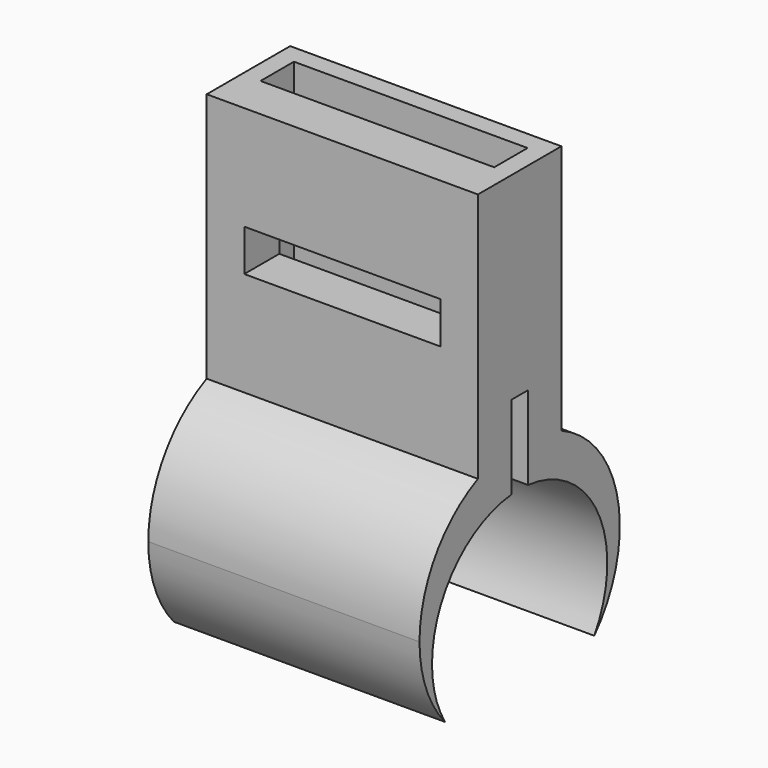
from build123d import *

# Parameters (mm, degrees)
F0_W     = 13
F0_H     = 5
F1_DEPTH = 12
F2_W     = 11.2
F2_H     = 2
F3_DEPTH = 12
F4_W     = 9.4
F4_H     = 2
F5_DEPTH = 5.001
F7_DEPTH = 13
F8_W     = 1
F8_H     = 4
F9_DEPTH = 13.001


with BuildPart() as f1:
    # F0 (on Top) → F1 (new body)
    with BuildSketch(Plane.XY):
        Rectangle(F0_W, F0_H)
    extrude(amount=F1_DEPTH)

    # F2 (on face) → F3 (cut)
    with BuildSketch(Plane.XY.offset(12)):
        with Locations((0, 0.6)):
            Rectangle(F2_W, F2_H)
    extrude(amount=-F3_DEPTH, mode=Mode.SUBTRACT)

    # F4 (on face) → F5 (cut, through all)
    with BuildSketch(Plane(origin=(0, 2.5, 0), x_dir=(-1, 0, 0), z_dir=(0, 1, 0))):
        with Locations((0, 6)):
            Rectangle(F4_W, F4_H)
    extrude(amount=-F5_DEPTH, mode=Mode.SUBTRACT)

    # F6 (on face) → F7 (join)
    with BuildSketch(Plane(origin=(-6.5, 0, 0), x_dir=(0, -1, 0), z_dir=(-1, 0, 0))):
        with BuildLine():
            ThreePointArc((4.472136, -9.454356), (5.605034, -7.595289), (6, -5.454356))
            ThreePointArc((6, -5.454356), (5.049752, -2.213986), (2.5, 0))
            Line((2.5, 0), (-2.5, 0))
            ThreePointArc((-2.5, 0), (-5.873575, -4.229155), (-4.472136, -9.454356))
            ThreePointArc((-4.472136, -9.454356), (-1.428948, -1.652564), (5.25, -6.704356))
            ThreePointArc((5.25, -6.704356), (5.051792, -8.133304), (4.472136, -9.454356))
        make_face()
    extrude(amount=-F7_DEPTH)

    # F8 (on face) → F9 (cut, through all)
    with BuildSketch(Plane(origin=(-6.5, 0, 0), x_dir=(0, -1, 0), z_dir=(-1, 0, 0))):
        with Locations((0, 0.52178)):
            Rectangle(F8_W, F8_H)
    extrude(amount=-F9_DEPTH, mode=Mode.SUBTRACT)


solid = f1.part
